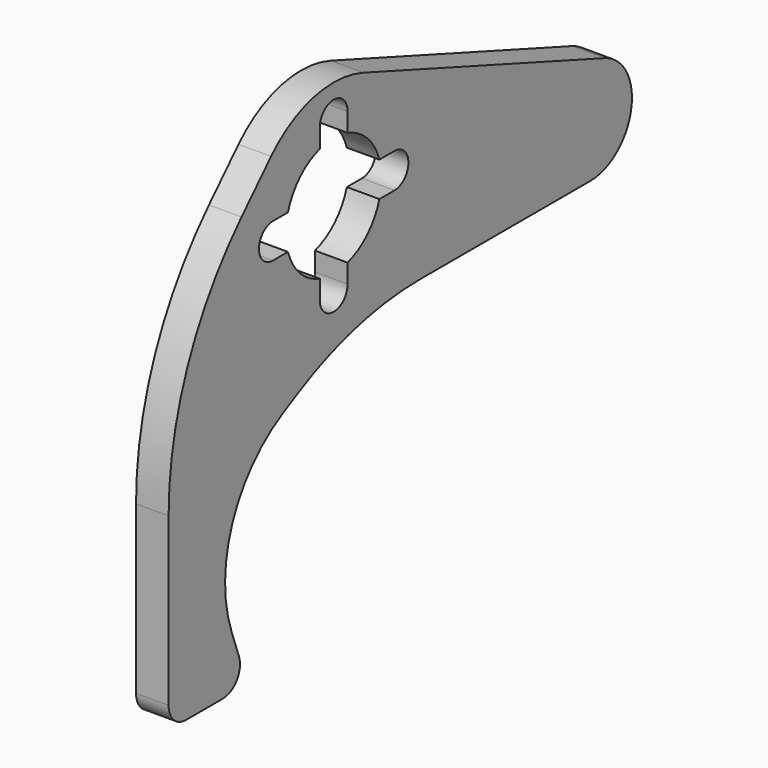
from build123d import *

# Parameters (mm, degrees)
PAD054_DEPTH = 3
FILLET009_R  = 2
FILLET010_R  = 30


with BuildPart() as part:
    # Sketch105 → Pad054 (new body)
    with BuildSketch(Plane.YZ):
        with BuildLine():
            Line((-19, -34.775252), (-19, -5.310494))
            Line((-19, -5.310494), (-7.202157, 6.937502))
            ThreePointArc((3.420201, 9.396926), (-2.255657, 9.74228), (-7.202157, 6.937502))
            Line((3.420201, 9.396926), (31.182699, -0.707796))
            ThreePointArc((29.544233, -10), (34.262008, -6.041316), (31.182699, -0.707796))
            Line((29.544233, -10), (2.5, -10))
            Line((2.5, -10), (-5.882353, -14.470588))
            ThreePointArc((-5.882353, -14.470588), (-11.672587, -21.027783), (-11.746158, -29.775252))
            Line((-11.746158, -29.775252), (-9.926307, -34.775252))
            Line((-19, -34.775252), (-9.926307, -34.775252))
        make_face()
        with BuildLine():
            ThreePointArc((-7, 1.6), (-8.6, 0), (-7, -1.6))
            Line((-7, -1.6), (-5.262129, -1.6))
            ThreePointArc((-5.262129, -1.6), (-3.889087, -3.889087), (-1.6, -5.262129))
            Line((-1.6, -7), (-1.6, -5.262129))
            ThreePointArc((-1.6, -7), (0, -8.6), (1.6, -7))
            Line((1.6, -7), (1.6, -5.262129))
            ThreePointArc((1.6, -5.262129), (3.889087, -3.889087), (5.262129, -1.6))
            Line((5.262129, -1.6), (7, -1.6))
            ThreePointArc((7, -1.6), (8.6, 0), (7, 1.6))
            Line((7, 1.6), (5.262129, 1.6))
            ThreePointArc((5.262129, 1.6), (3.889087, 3.889087), (1.6, 5.262129))
            Line((1.6, 7), (1.6, 5.262129))
            ThreePointArc((1.6, 7), (0, 8.6), (-1.6, 7))
            Line((-1.6, 7), (-1.6, 5.262129))
            ThreePointArc((-1.6, 5.262129), (-3.889087, 3.889087), (-5.262129, 1.6))
            Line((-7, 1.6), (-5.262129, 1.6))
        make_face(mode=Mode.SUBTRACT)
    extrude(amount=PAD054_DEPTH)

    # Fillet009
    fillet009_edges = [part.edges().sort_by_distance(p)[0] for p in [
        (1.5, -9.926307, -34.775252),
        (1.5, -19, -34.775252),
    ]]
    fillet(fillet009_edges, radius=FILLET009_R)

    # Fillet010
    fillet010_edges = [part.edges().sort_by_distance(p)[0] for p in [
        (1.5, -19, -5.310494),
        (1.5, 2.5, -10),
    ]]
    fillet(fillet010_edges, radius=FILLET010_R)


solid = part.part
